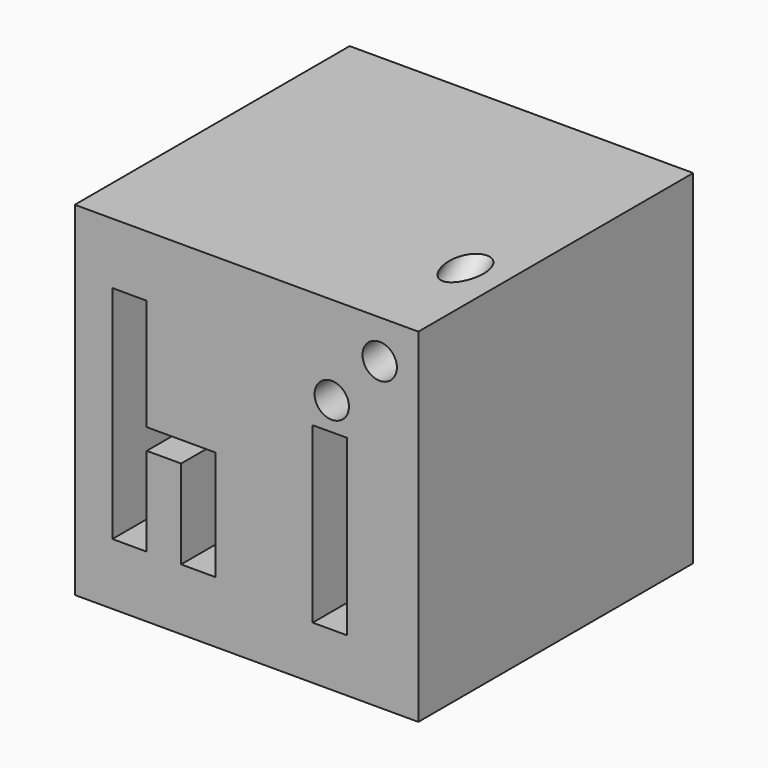
from build123d import *

# Parameters (mm, degrees)
F0_W     = 25.4
F0_H     = 25.4
F1_DEPTH = 25.4
F2_R     = 1.27
F3_DEPTH = 25.4
F4_R     = 1.27


with BuildPart() as f1:
    # F0 (on Front) → F1 (new body)
    with BuildSketch(Plane.XZ):
        with Locations((12.7, 12.7)):
            Rectangle(F0_W, F0_H)
    extrude(amount=F1_DEPTH)

    # F2 (on face) → F3 (cut)
    with BuildSketch(Plane.XZ.offset(25.4)):
        Polygon((10.399874, 12.655389), (5.319874, 12.655389), (5.319874, 20.881082), (4.538336, 20.881082), (2.779874, 20.881082), (2.779874, 4.546927), (4.538336, 4.546927), (5.319874, 4.546927), (5.319874, 11.11185), (7.859874, 11.11185), (7.859874, 4.546927), (10.399874, 4.546927), align=None)
        Polygon((20.130028, 16.778005), (17.590028, 16.768235), (17.590028, 3.921696), (20.130028, 3.921696), align=None)
        with Locations((18.996799, 18.849081)):
            Circle(F2_R)
    extrude(amount=-F3_DEPTH, mode=Mode.SUBTRACT)

    # F4 (on face) → F5 (revolve, cut)
    with BuildSketch(Plane.XZ.offset(25.4)):
        with Locations((22.5425, 22.5425)):
            Circle(F4_R)
    revolve(axis=Axis((23.53713, -25.4, 35.2425), (1, 0, 0)), mode=Mode.SUBTRACT)


solid = f1.part
